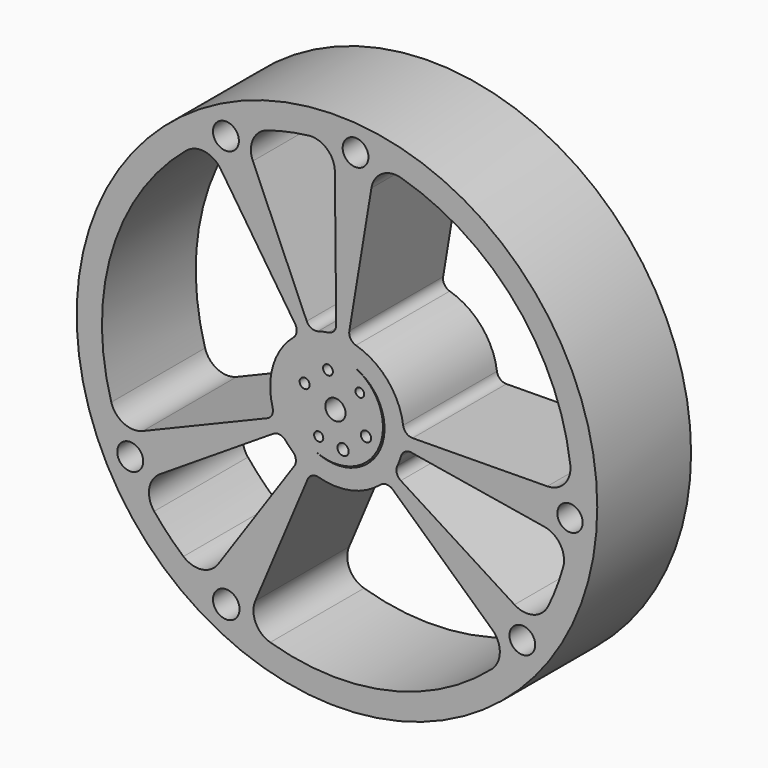
from build123d import *

# Parameters (mm, degrees)
F0_R     = 55.507491
F0_R_2   = 2.831016
F0_R_3   = 2.762544
F0_R_4   = 2.741928
F0_R_5   = 2.700224
F0_R_6   = 2.762824
F0_R_7   = 10.141613
F0_R_8   = 2.750086
F1_DEPTH = 25
F2_R     = 10.141613
F2_R_2   = 0.972579
F2_R_3   = 1.194025
F2_R_4   = 1.098643
F2_R_5   = 1.068939
F2_R_6   = 1.045628
F2_R_7   = 2.154273
F2_R_8   = 0.934876
F3_DEPTH = 25


with BuildPart() as f1:
    # F0 (on Front) → F1 (new body)
    with BuildSketch(Plane.XZ):
        Circle(F0_R)
        with Locations((-23.60731, -43.971572)):
            Circle(F0_R_2, mode=Mode.SUBTRACT)
        with Locations((-44.092819, -22.890553)):
            Circle(F0_R_3, mode=Mode.SUBTRACT)
        with BuildLine():
            ThreePointArc((-38.981074, -31.501106), (-40.027301, -27.555651), (-37.784517, -24.145208))
            Line((-37.784517, -24.145208), (-13.582291, -8.679408))
            ThreePointArc((-13.582291, -8.679408), (-12.196485, -8.388691), (-10.965496, -9.088434))
            ThreePointArc((-10.965496, -9.088434), (-10.231273, -9.907714), (-9.436002, -10.667877))
            ThreePointArc((-9.436002, -10.667877), (-8.776165, -11.92071), (-9.11125, -13.296461))
            Line((-9.11125, -13.296461), (-25.346547, -36.989368))
            ThreePointArc((-25.346547, -36.989368), (-28.827279, -39.121436), (-32.737088, -37.949003))
            ThreePointArc((-32.737088, -37.949003), (-36.003715, -34.865115), (-38.981074, -31.501106))
        make_face(mode=Mode.SUBTRACT)
        with BuildLine():
            ThreePointArc((9.250821, -10.828853), (10.583292, -10.349798), (11.89902, -10.87309))
            Line((11.89902, -10.87309), (33.101832, -30.247802))
            ThreePointArc((33.101832, -30.247802), (34.728727, -33.991385), (33.023564, -37.699973))
            ThreePointArc((33.023564, -37.699973), (10.726868, -48.9569), (-14.234037, -48.05451))
            ThreePointArc((-14.234037, -48.05451), (-17.333693, -45.398699), (-17.421203, -41.317823))
            Line((-17.421203, -41.317823), (-6.262349, -14.852398))
            ThreePointArc((-6.262349, -14.852398), (-5.285977, -13.826888), (-3.875272, -13.70489))
            ThreePointArc((-3.875272, -13.70489), (3.048283, -13.912214), (9.250821, -10.828853))
        make_face(mode=Mode.SUBTRACT)
        with Locations((39.516639, -30.155763)):
            Circle(F0_R_4, mode=Mode.SUBTRACT)
        with BuildLine():
            ThreePointArc((45.023811, -22.015908), (41.89017, -24.631533), (37.851417, -24.040197))
            Line((37.851417, -24.040197), (13.606339, -8.64166))
            ThreePointArc((13.606339, -8.64166), (12.757193, -7.508556), (12.871137, -6.097177))
            ThreePointArc((12.871137, -6.097177), (13.303361, -5.085501), (13.656207, -4.043482))
            ThreePointArc((13.656207, -4.043482), (14.512799, -2.915997), (15.901267, -2.63827))
            Line((15.901267, -2.63827), (44.235666, -7.339391))
            ThreePointArc((44.235666, -7.339391), (47.638996, -9.592954), (48.228768, -13.631936))
            ThreePointArc((48.228768, -13.631936), (46.814353, -17.895813), (45.023811, -22.015908))
        make_face(mode=Mode.SUBTRACT)
        with Locations((49.685858, -3.912825)):
            Circle(F0_R_5, mode=Mode.SUBTRACT)
        with BuildLine():
            ThreePointArc((-8.91513, 13.428746), (-8.600271, 12.048225), (-9.278424, 10.805211))
            ThreePointArc((-9.278424, 10.805211), (-13.625701, 4.145118), (-13.723839, -3.80762))
            ThreePointArc((-13.723839, -3.80762), (-13.852795, -5.217706), (-14.883109, -6.189008))
            Line((-14.883109, -6.189008), (-41.403257, -17.217175))
            ThreePointArc((-41.403257, -17.217175), (-45.483651, -17.109536), (-48.124141, -13.996816))
            ThreePointArc((-48.124141, -13.996816), (-47.948665, 14.586616), (-32.176622, 38.425366))
            ThreePointArc((-32.176622, 38.425366), (-28.250027, 39.540292), (-24.800961, 37.357371))
            Line((-24.800961, 37.357371), (-8.91513, 13.428746))
        make_face(mode=Mode.SUBTRACT)
        with BuildLine():
            ThreePointArc((-14.834567, 47.872533), (-10.488232, 49.008578), (-6.057631, 49.750868))
            ThreePointArc((-6.057631, 49.750868), (-2.15728, 48.547347), (-0.453554, 44.838099))
            Line((-0.453554, 44.838099), (-0.163038, 16.117821))
            ThreePointArc((-0.163038, 16.117821), (-0.650861, 14.788535), (-1.896601, 14.115404))
            ThreePointArc((-1.896601, 14.115404), (-2.980469, 13.9269), (-4.046554, 13.655297))
            ThreePointArc((-4.046554, 13.655297), (-5.458676, 13.759623), (-6.447811, 14.772829))
            Line((-6.447811, 14.772829), (-17.937139, 41.09647))
            ThreePointArc((-17.937139, 41.09647), (-17.900729, 45.178121), (-14.834567, 47.872533))
        make_face(mode=Mode.SUBTRACT)
        with Locations((-23.679955, 43.914214)):
            Circle(F0_R_6, mode=Mode.SUBTRACT)
        Circle(F0_R_7, mode=Mode.SUBTRACT)
        with BuildLine():
            Line((2.63827, 15.901267), (7.339391, 44.235666))
            ThreePointArc((7.339391, 44.235666), (9.592954, 47.638996), (13.631936, 48.228768))
            ThreePointArc((13.631936, 48.228768), (38.065025, 32.602111), (49.750868, 6.057631))
            ThreePointArc((49.750868, 6.057631), (48.547347, 2.15728), (44.838099, 0.453554))
            Line((44.838099, 0.453554), (16.117821, 0.163038))
            ThreePointArc((16.117821, 0.163038), (14.788535, 0.650861), (14.115404, 1.896601))
            ThreePointArc((14.115404, 1.896601), (10.817041, 9.26463), (4.043482, 13.656207))
            ThreePointArc((4.043482, 13.656207), (2.915997, 14.512799), (2.63827, 15.901267))
        make_face(mode=Mode.SUBTRACT)
        with Locations((3.962071, 49.823198)):
            Circle(F0_R_8, mode=Mode.SUBTRACT)
    extrude(amount=F1_DEPTH)

    # F2 (on Front) → F3 (join)
    with BuildSketch(Plane.XZ):
        with Locations((-0.332667, 0.152715)):
            Circle(F2_R)
        with Locations((-3.896208, -6.036293)):
            Circle(F2_R_2, mode=Mode.SUBTRACT)
        with Locations((1.296153, -6.800671)):
            Circle(F2_R_3, mode=Mode.SUBTRACT)
        with Locations((6.186505, -2.763281)):
            Circle(F2_R_4, mode=Mode.SUBTRACT)
        with Locations((-6.896846, 2.965934)):
            Circle(F2_R_5, mode=Mode.SUBTRACT)
        with Locations((-1.922125, 7.090822)):
            Circle(F2_R_6, mode=Mode.SUBTRACT)
        with Locations((-0.332667, 0.152715)):
            Circle(F2_R_7, mode=Mode.SUBTRACT)
        with Locations((4.879461, 5.034964)):
            Circle(F2_R_8, mode=Mode.SUBTRACT)
    extrude(amount=F3_DEPTH)


solid = f1.part
